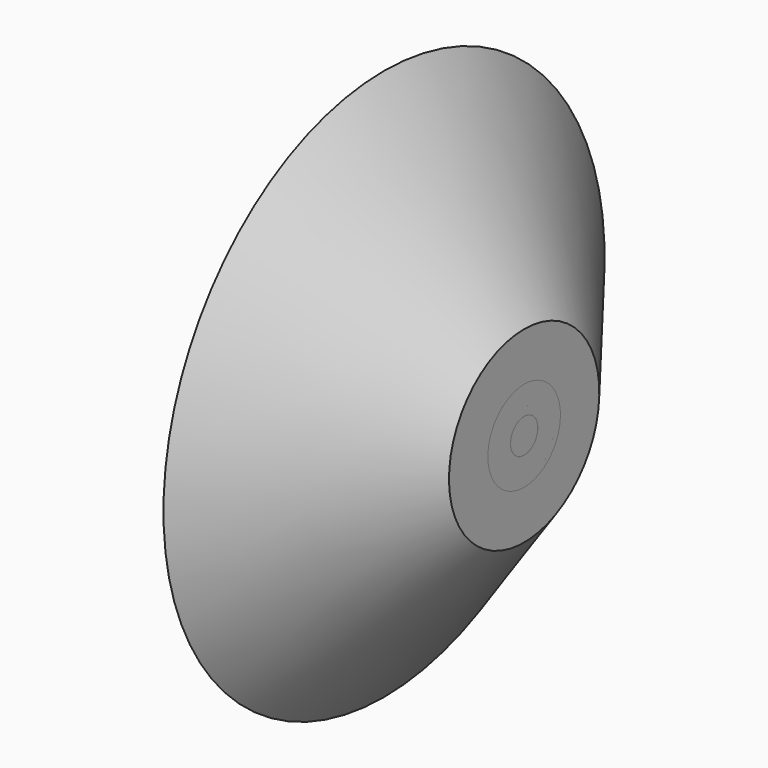
from build123d import *

# Parameters (mm, degrees)
F2_W = 15.8114507794
F2_H = 1.5316511272
F4_W = 3.1408506911
F4_H = 2.5479650358


with BuildPart() as f1:
    # F0 (on Front) → F1 (revolve)
    with BuildSketch(Plane.XZ):
        Polygon((-12.6624526456, 24.9074622989), (-12.6624526456, 0), (-6.3131642528, 0), (-6.3131642528, 1.5215113526), (0, 1.5215113526), (0, 8.4880171344), align=None)
    revolve(axis=Axis((-9.4878084492, 0, 0), (1, 0, 0)))


with BuildPart() as f3:
    # F2 (on Front) → F3 (revolve)
    with BuildSketch(Plane.XZ):
        with Locations((-7.9057253897, 0.7658255636)):
            Rectangle(F2_W, F2_H)
    revolve(axis=Axis((-7.9057253897, 0, 0), (-1, 0, 0)))


with BuildPart() as f5:
    # F4 (on Front) → F5 (revolve)
    with BuildSketch(Plane.XZ):
        with Locations((-1.5704253456, 2.8242102708)):
            Rectangle(F4_W, F4_H)
    revolve(axis=Axis((-1.6580830561, 0, 0), (-1, 0, 0)))


solid = Compound([f1.part, f3.part, f5.part])
